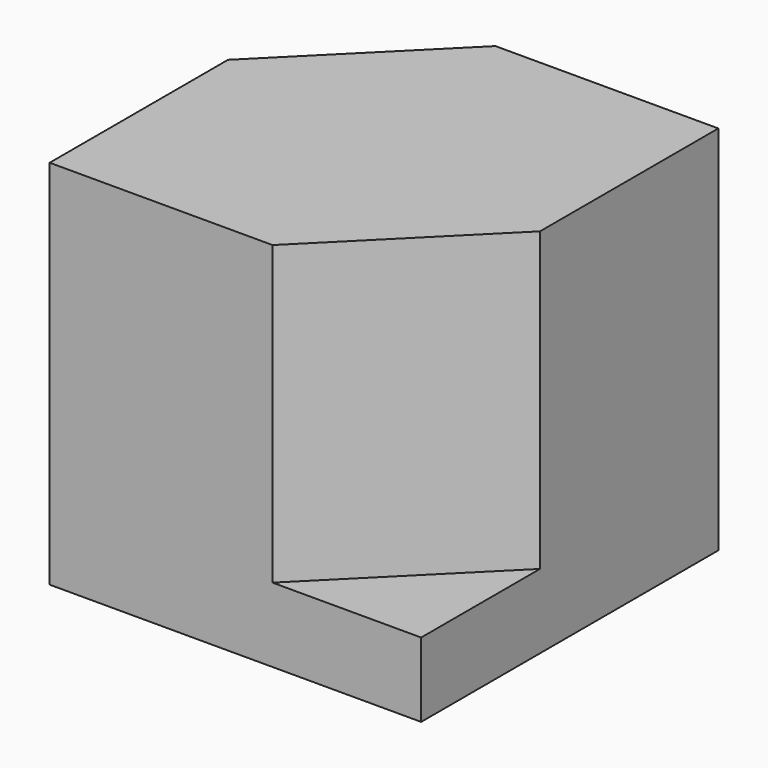
from build123d import *

# Parameters (mm, degrees)
F0_W     = 127
F0_H     = 127
F1_DEPTH = 63.5
F3_DEPTH = 101.6


with BuildPart() as f1:
    # F0 (on Top) → F1 (new body, symmetric)
    with BuildSketch(Plane.XY):
        with Locations((-0.111125, -0.834118)):
            Rectangle(F0_W, F0_H)
    extrude(amount=F1_DEPTH, both=True)

    # F2 (on face) → F3 (cut)
    with BuildSketch(Plane.XY.offset(63.5)):
        Polygon((63.388875, -64.334118), (63.388875, -13.534118), (12.588875, -64.334118), align=None)
        Polygon((-12.811125, 62.665882), (-63.611125, 62.665882), (-63.611125, 11.865882), align=None)
    extrude(amount=-F3_DEPTH, mode=Mode.SUBTRACT)


solid = f1.part
